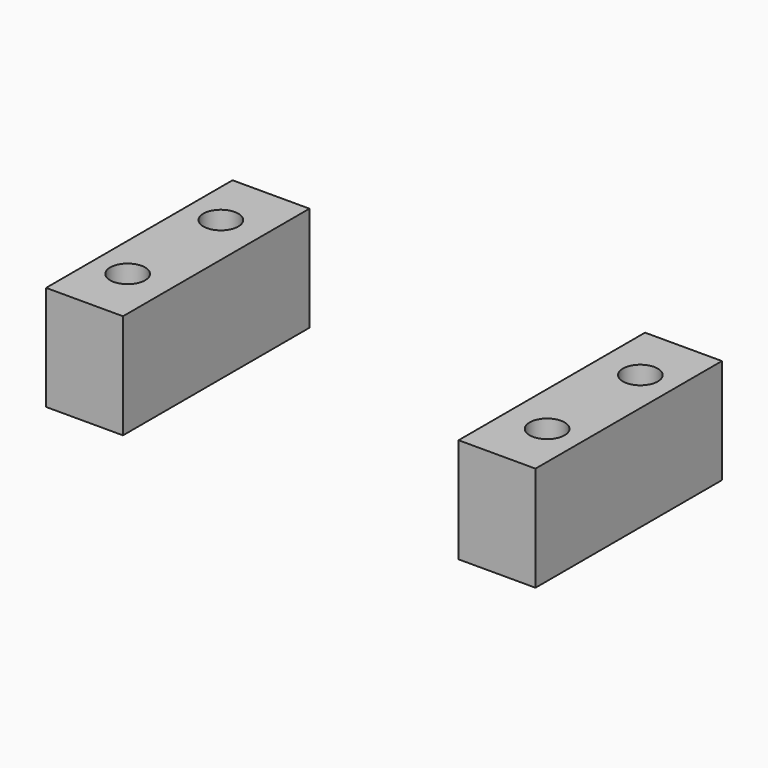
from build123d import *

# Parameters (mm, degrees)
CYLINDER1730_R     = 1.5
CYLINDER1730_DEPTH = 60
CYLINDER1732_R     = 1.5
CYLINDER1732_DEPTH = 60
CYLINDER1729_R     = 1.5
CYLINDER1729_DEPTH = 60
CYLINDER1731_R     = 1.5
CYLINDER1731_DEPTH = 60
BOX668_W           = 28.8
BOX668_H           = 34.21
BOX668_DEPTH       = 9
BOX669_W           = 42
BOX669_H           = 20
BOX669_DEPTH       = 9


with BuildPart() as obj1:
    # Cylinder1730 → Cylinder1730 (new body)
    with BuildSketch(Plane(origin=(18, 85, -57), x_dir=(1, 0, 0), z_dir=(0, 0, 1))):
        Circle(CYLINDER1730_R)
    extrude(amount=CYLINDER1730_DEPTH)


with BuildPart() as obj2:
    # Cylinder1732 → Cylinder1732 (new body)
    with BuildSketch(Plane(origin=(-18, 85, -57), x_dir=(1, 0, 0), z_dir=(0, 0, 1))):
        Circle(CYLINDER1732_R)
    extrude(amount=CYLINDER1732_DEPTH)


with BuildPart() as obj3:
    # Cylinder1729 → Cylinder1729 (new body)
    with BuildSketch(Plane(origin=(-18, 95, -57), x_dir=(1, 0, 0), z_dir=(0, 0, 1))):
        Circle(CYLINDER1729_R)
    extrude(amount=CYLINDER1729_DEPTH)


with BuildPart() as compound855:
    # Cylinder1731 → Cylinder1731 (new body)
    with BuildSketch(Plane(origin=(18, 95, -57), x_dir=(1, 0, 0), z_dir=(0, 0, 1))):
        Circle(CYLINDER1731_R)
    extrude(amount=CYLINDER1731_DEPTH)

    # Compound855: union obj1, obj2, obj3
    add(obj1.part)
    add(obj2.part)
    add(obj3.part)


with BuildPart() as compound853:
    # Box668 → Box668 (new body)
    with BuildSketch(Plane(origin=(-14.4, -15.34, 34), x_dir=(1, 0, 0), z_dir=(0, 0, 1))):
        with Locations((14.4, 17.105)):
            Rectangle(BOX668_W, BOX668_H)
    extrude(amount=BOX668_DEPTH)


with BuildPart() as compound853_1:
    # Compound853 placement: moved
    add(compound853.part.moved(Location((0, 90, -83))))


with BuildPart() as cut362:
    # Box669 → Box669 (new body)
    with BuildSketch(Plane(origin=(-21, 80, -49), x_dir=(1, 0, 0), z_dir=(0, 0, 1))):
        with Locations((21, 10)):
            Rectangle(BOX669_W, BOX669_H)
    extrude(amount=BOX669_DEPTH)

    # Cut358: cut Compound853
    add(compound853_1.part, mode=Mode.SUBTRACT)


with BuildPart() as cut362_1:
    # Cut358 placement: moved
    add(cut362.part.moved(Location((0, 0, 1))))

    # Cut362: cut Compound855
    add(compound855.part, mode=Mode.SUBTRACT)


solid = cut362_1.part
